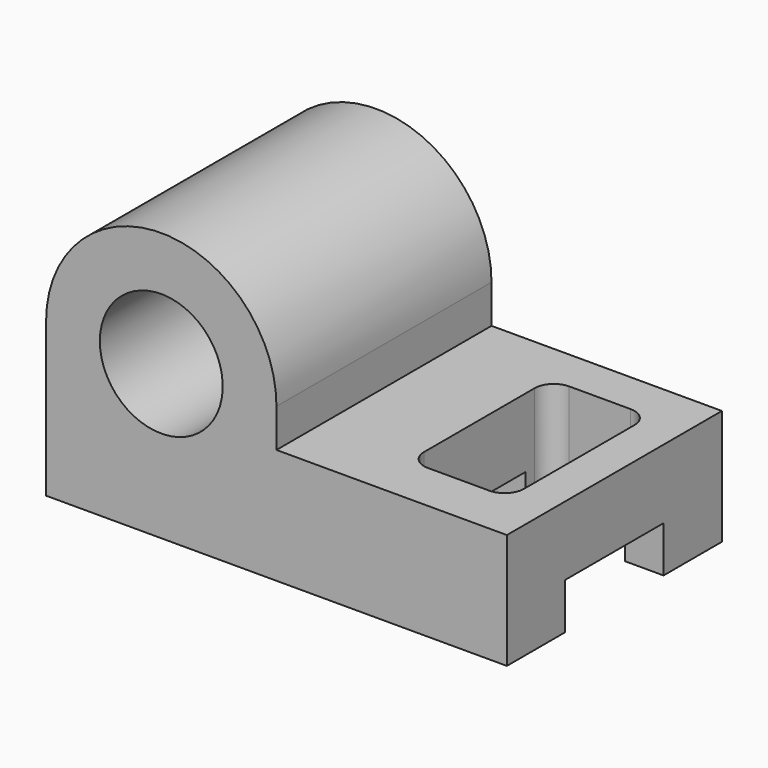
from build123d import *

# Parameters (mm, degrees)
F0_W     = 1200
F0_H     = 300
F1_DEPTH = 700
F2_W     = 600
F2_H     = 100
F3_DEPTH = 700
F4_R     = 160
F5_DEPTH = 700.001
F7_DEPTH = 300.001
F8_W     = 320
F8_H     = 240
F9_DEPTH = 1200.001


with BuildPart() as f1:
    # F0 (on Front) → F1 (new body)
    with BuildSketch(Plane.XZ):
        Rectangle(F0_W, F0_H)
    extrude(amount=F1_DEPTH)

    # F2 (on face) → F3 (join)
    with BuildSketch(Plane(origin=(0, 0, 0), x_dir=(-1, 0, 0), z_dir=(0, 1, 0))):
        with Locations((300, 200)):
            Rectangle(F2_W, F2_H)
        with BuildLine():
            Line((0, 250), (600, 250))
            ThreePointArc((600, 250), (300, 550), (0, 250))
        make_face()
    extrude(amount=-F3_DEPTH)

    # F4 (on face) → F5 (cut, through all)
    with BuildSketch(Plane(origin=(0, 0, 0), x_dir=(-1, 0, 0), z_dir=(0, 1, 0))):
        with Locations((300, 250)):
            Circle(F4_R)
    extrude(amount=-F5_DEPTH, mode=Mode.SUBTRACT)

    # F6 (on face) → F7 (cut, through all)
    with BuildSketch(Plane.XY.offset(150)):
        with BuildLine():
            Line((450, -109.617759), (290, -109.617759))
            ThreePointArc((290, -109.617759), (254.644661, -124.26242), (240, -159.617759))
            Line((240, -159.617759), (240, -519.617759))
            ThreePointArc((240, -519.617759), (254.644661, -554.973098), (290, -569.617759))
            Line((290, -569.617759), (450, -569.617759))
            ThreePointArc((450, -569.617759), (485.355339, -554.973098), (500, -519.617759))
            Line((500, -519.617759), (500, -159.617759))
            ThreePointArc((500, -159.617759), (485.355339, -124.26242), (450, -109.617759))
        make_face()
    extrude(amount=-F7_DEPTH, mode=Mode.SUBTRACT)

    # F8 (on face) → F9 (cut, through all)
    with BuildSketch(Plane.YZ.offset(600)):
        with Locations((-350, -150)):
            Rectangle(F8_W, F8_H)
    extrude(amount=-F9_DEPTH, mode=Mode.SUBTRACT)


solid = f1.part
